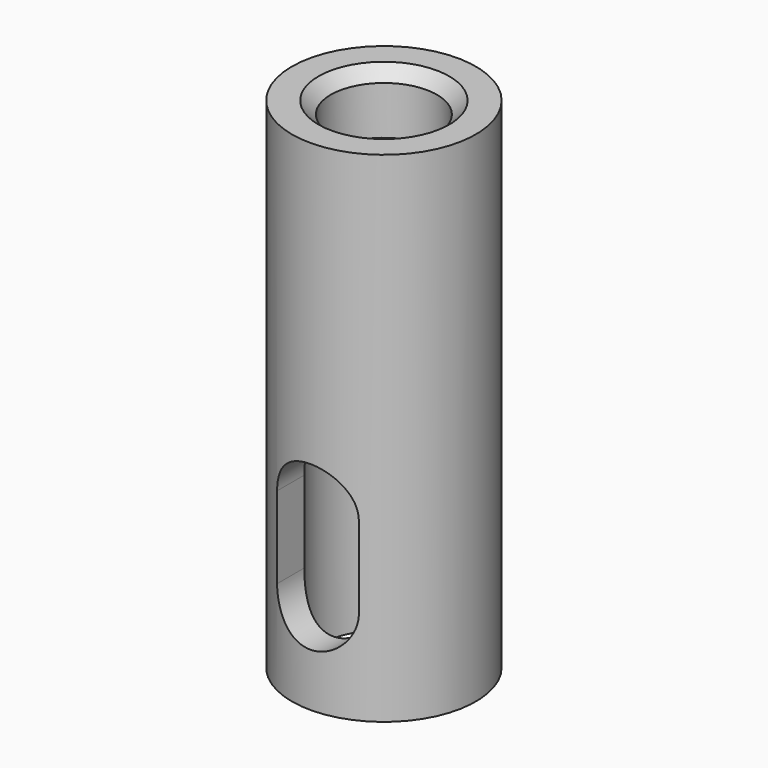
from build123d import *

# Parameters (mm, degrees)
POCKET_DEPTH      = 22.501
POCKET_DEPTH_BACK = -22.501


with BuildPart() as part:
    # Sketch → Revolution (revolve)
    with BuildSketch(Plane.XZ):
        Polygon((-22.5, 0), (-15.5, 0), (-15.5, 75), (-4.1, 93.15), (-4.1, 102.15), (-5.1, 103.15), (-8.1, 103.15), (-13, 107.35), (-13, 119.15), (-16, 122.15), (-22.5, 122.15), align=None)
    revolve(axis=Axis((0, 0, 0), (0, 0, 1)))

    # Sketch001 → Pocket (cut, two sides)
    with BuildSketch(Plane.XZ) as pocket_sk:
        with BuildLine():
            ThreePointArc((-10, 23), (0, 13), (10, 23))
            Line((10, 23), (10, 43))
            ThreePointArc((10, 43), (0, 53), (-10, 43))
            Line((-10, 43), (-10, 23))
        make_face()
    extrude(amount=-POCKET_DEPTH, mode=Mode.SUBTRACT)
    extrude(pocket_sk.sketch, amount=-POCKET_DEPTH_BACK, mode=Mode.SUBTRACT)


solid = part.part
